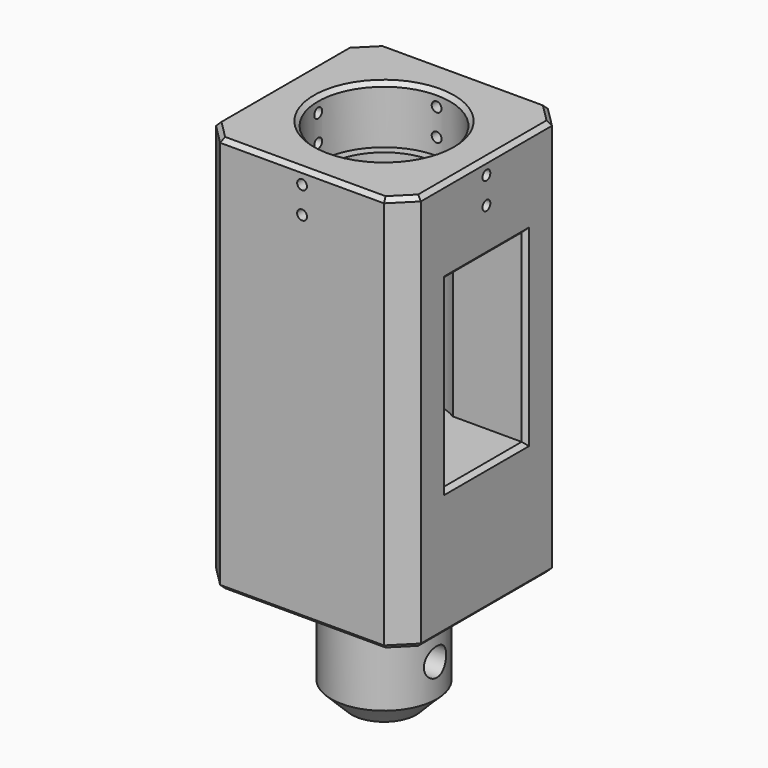
from build123d import *

# Parameters (mm, degrees)
F0_R      = 12.9
F1_DEPTH  = 28
F2_W      = 50
F2_H      = 50
F3_DEPTH  = 97
F4_R      = 14
F5_DEPTH  = 66
F6_R      = 16.1
F7_DEPTH  = 14
F8_R      = 3.4
F9_DEPTH  = 15
F10_R     = 1.2
F11_DEPTH = 51.4
F12_R     = 1.2
F12_W     = 24
F12_H     = 45
F13_DEPTH = 37.8
F14_SIZE  = 5
F15_SIZE  = 1


with BuildPart() as f1:
    # F0 (on Top) → F1 (new body)
    with BuildSketch(Plane.XY):
        Circle(F0_R)
    extrude(amount=F1_DEPTH)

    # F2 (on face) → F3 (join)
    with BuildSketch(Plane.XY.offset(28)):
        Rectangle(F2_W, F2_H)
    extrude(amount=F3_DEPTH)

    # F4 (on face) → F5 (cut)
    with BuildSketch(Plane.XY.offset(125)):
        Circle(F4_R)
    extrude(amount=-F5_DEPTH, mode=Mode.SUBTRACT)

    # F6 (on face) → F7 (cut)
    with BuildSketch(Plane.XY.offset(125)):
        Circle(F6_R)
    extrude(amount=-F7_DEPTH, mode=Mode.SUBTRACT)

    # F8 (on Right) → F9 (cut, symmetric)
    with BuildSketch(Plane.YZ):
        with Locations((0, 13)):
            Circle(F8_R)
    extrude(amount=F9_DEPTH, both=True, mode=Mode.SUBTRACT)

    # F10 (on Front) → F11 (cut, symmetric)
    with BuildSketch(Plane.XZ):
        with Locations((0, 121.5)):
            Circle(F10_R)
        with Locations((0, 115)):
            Circle(F10_R)
    extrude(amount=F11_DEPTH, both=True, mode=Mode.SUBTRACT)

    # F12 (on Right) → F13 (cut, symmetric)
    with BuildSketch(Plane.YZ):
        with Locations((0, 121.5)):
            Circle(F12_R)
        with Locations((0, 115)):
            Circle(F12_R)
        with Locations((0, 81.5)):
            Rectangle(F12_W, F12_H)
    extrude(amount=F13_DEPTH, both=True, mode=Mode.SUBTRACT)

    # F14
    f14_edges = [f1.edges().sort_by_distance(p)[0] for p in [
        (-12.9, 0, 0),
        (-25, 25, 76.5),
        (-25, -25, 76.5),
        (25, -25, 76.5),
        (25, 25, 76.5),
    ]]
    chamfer(f14_edges, length=F14_SIZE)

    # F15
    f15_edges = [f1.edges().sort_by_distance(p)[0] for p in [
        (-16.1, 0, 125),
        (0, -25, 125),
        (-22.5, -22.5, 125),
        (22.5, -22.5, 125),
        (-25, 0, 125),
        (25, 0, 125),
        (-22.5, 22.5, 125),
        (22.5, 22.5, 125),
        (0, 25, 125),
        (-25, 0, 28),
        (0, 25, 28),
        (-22.5, 22.5, 28),
        (0, -25, 28),
        (-22.5, -22.5, 28),
        (22.5, -22.5, 28),
        (25, 0, 28),
        (22.5, 22.5, 28),
        (-25, 0, 59),
        (-25, 12, 81.5),
        (-25, 0, 104),
        (-25, -12, 81.5),
        (25, 0, 59),
        (25, -12, 81.5),
        (25, 12, 81.5),
        (25, 0, 104),
    ]]
    chamfer(f15_edges, length=F15_SIZE)


solid = f1.part
